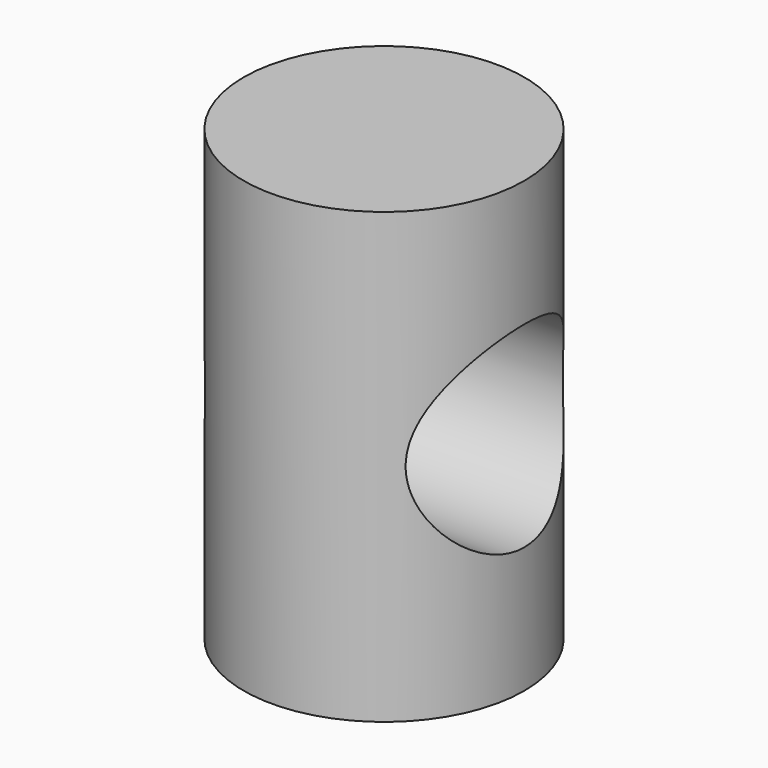
from build123d import *

# Parameters (mm, degrees)
F0_R     = 7.9375
F1_DEPTH = 25.4
F2_R     = 5.55625
F3_DEPTH = 12.7


with BuildPart() as f1:
    # F0 (on Top) → F1 (new body)
    with BuildSketch(Plane.XY):
        Circle(F0_R)
    extrude(amount=F1_DEPTH)

    # F2 (on Right) → F3 (cut, symmetric)
    with BuildSketch(Plane.YZ):
        with Locations((0, 12.7)):
            Circle(F2_R)
    extrude(amount=F3_DEPTH, both=True, mode=Mode.SUBTRACT)


solid = f1.part
